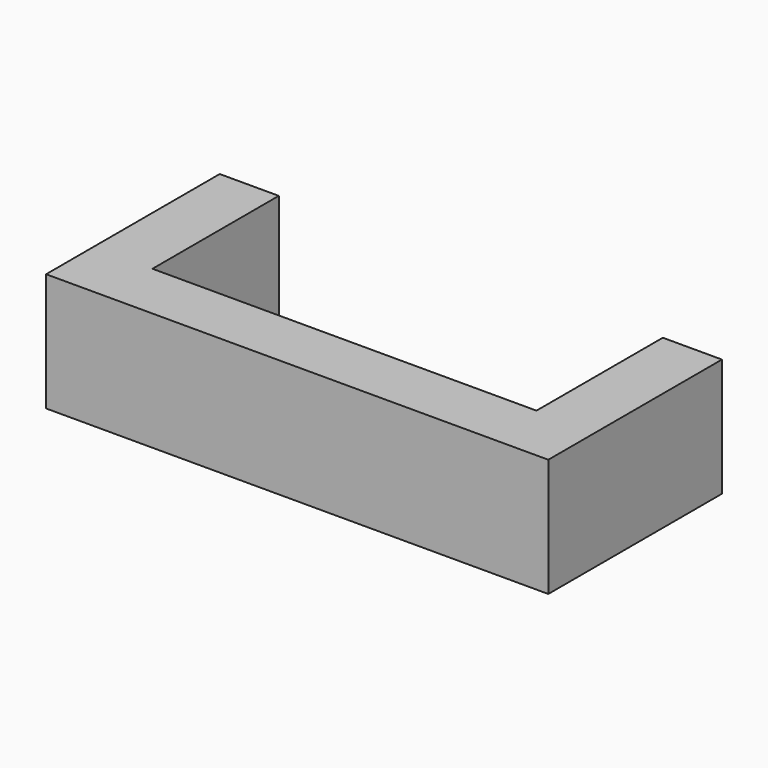
from build123d import *

# Parameters (mm, degrees)
PAD_DEPTH = 10


with BuildPart() as part:
    # Sketch → Pad (new body)
    with BuildSketch(Plane.XY):
        Polygon((-21.248375, 0), (-21.248375, 18.363311), (-16.248375, 18.363311), (-16.248375, 5), (16.248375, 5), (16.248375, 18.363311), (21.248375, 18.363311), (21.248375, 0), align=None)
    extrude(amount=PAD_DEPTH)


solid = part.part
